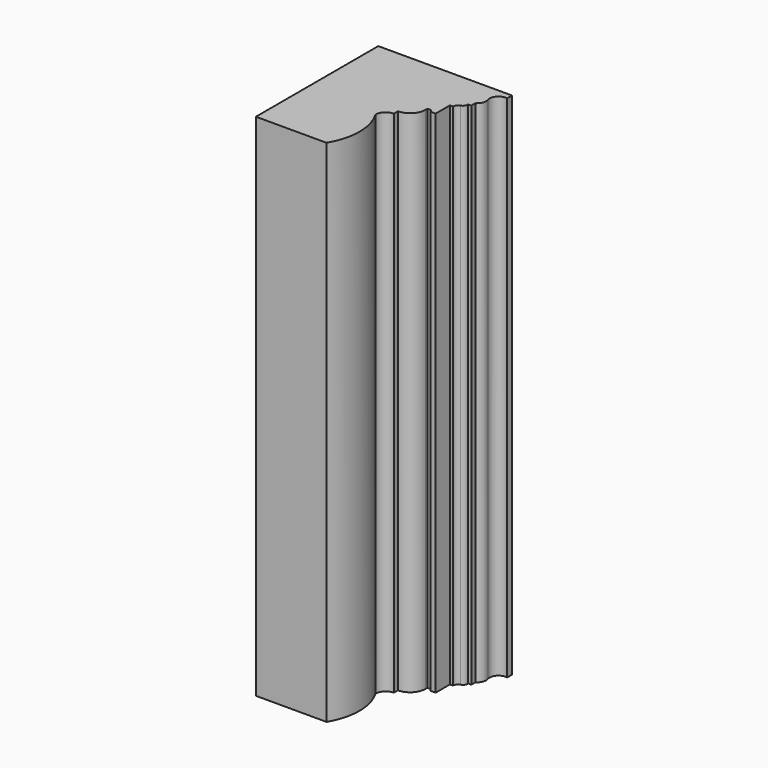
from build123d import *

# Parameters (mm, degrees)
F1_DEPTH = 1000


with BuildPart() as f1:
    # F0 (on Top) → F1 (new body)
    with BuildSketch(Plane.XY):
        with BuildLine():
            Line((125.716477, 120), (-136.783523, 120))
            Line((-136.783523, 120), (-136.783523, -180))
            Line((-136.783523, -180), (1.716477, -180))
            ThreePointArc((1.716477, -180), (18.335515, -120), (1.716477, -60))
            ThreePointArc((1.716477, -60), (7.574341, -45.857864), (21.716477, -40))
            Line((21.716477, -40), (21.716477, -30))
            ThreePointArc((21.716477, -30), (42.92968, -21.213203), (51.716477, 0))
            Line((51.716477, 0), (51.716477, 5))
            Line((51.716477, 5), (56.716477, 5))
            ThreePointArc((56.716477, 5), (60.252011, 3.535534), (61.716477, 0))
            Line((61.716477, 0), (71.716477, 0))
            Line((71.716477, 0), (71.716477, 35))
            Line((71.716477, 35), (77.716477, 35))
            ThreePointArc((77.716477, 35), (79.66063, 40.924807), (84.737143, 44.545867))
            ThreePointArc((84.737143, 44.545867), (90.074672, 48.539274), (91.716477, 55))
            Line((91.716477, 55), (97.716477, 55))
            Line((97.716477, 55), (97.716477, 65))
            ThreePointArc((97.716477, 65), (105.346334, 73.838605), (105.718453, 85.508959))
            ThreePointArc((105.718453, 85.508959), (109.315655, 102.446682), (125.716477, 108))
            Line((125.716477, 108), (125.716477, 120))
        make_face()
    extrude(amount=F1_DEPTH)


solid = f1.part
